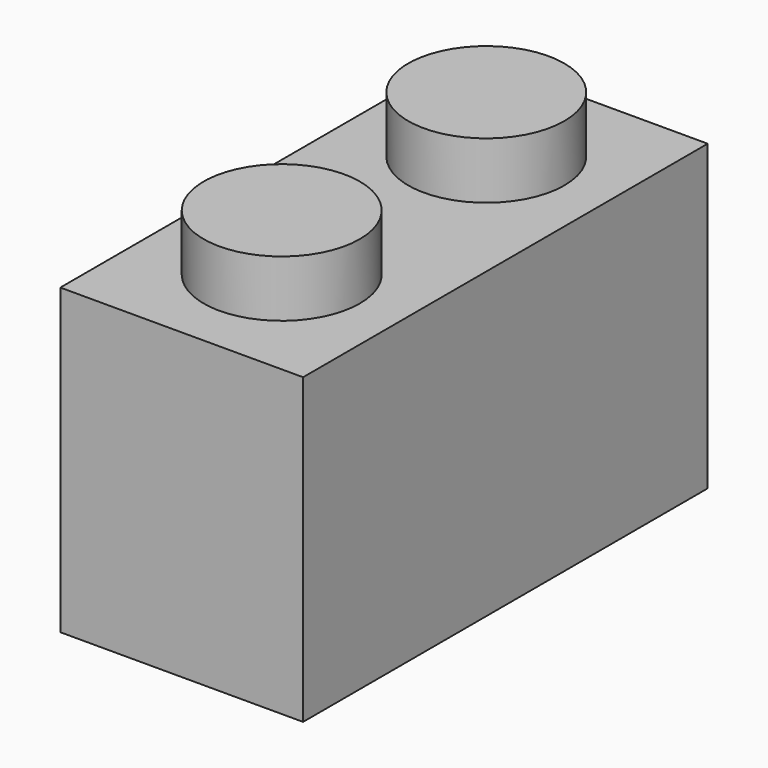
from build123d import *

# Parameters (mm, degrees)
F0_W     = 7.62
F0_H     = 15.875
F1_DEPTH = 4.7625
F2_R     = 2.4511
F3_DEPTH = 1.778
F4_W     = 4.572
F4_H     = 12.827
F4_R     = 1.4986
F5_DEPTH = 8.382


with BuildPart() as f1:
    # F0 (on Top) → F1 (new body, symmetric)
    with BuildSketch(Plane.XY):
        Rectangle(F0_W, F0_H)
    extrude(amount=F1_DEPTH, both=True)

    # F2 (on face) → F3 (join)
    with BuildSketch(Plane.XY.offset(4.7625)):
        with Locations((0, 4.0132)):
            Circle(F2_R)
        with Locations((0, -4.0132)):
            Circle(F2_R)
    extrude(amount=F3_DEPTH)

    # F4 (on face) → F5 (cut)
    with BuildSketch(Plane(origin=(0, 0, -4.7625), x_dir=(1, 0, 0), z_dir=(0, 0, -1))):
        Rectangle(F4_W, F4_H)
        Circle(F4_R, mode=Mode.SUBTRACT)
    extrude(amount=-F5_DEPTH, mode=Mode.SUBTRACT)


solid = f1.part
